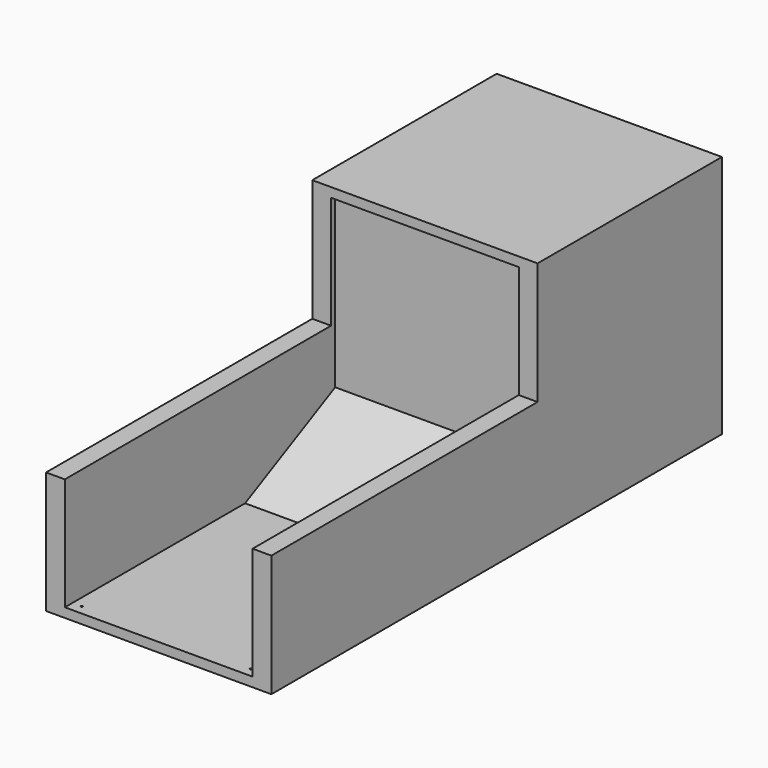
from build123d import *

# Parameters (mm, degrees)
F0_W          = 1219.2
F0_H          = 1320.8
F1_DEPTH      = 3048
F2_W          = 1016
F2_H          = 1219.2
F3_DEPTH      = 1219.2
F4_W          = 1016
F4_H          = 914.4
F5_DEPTH      = 609.6
F8_DEPTH      = 508
F8_DEPTH_BACK = 508
F9_W          = 1219.2
F9_H          = 660.4
F10_DEPTH     = 1800.86
F12_DEPTH     = 12.7


with BuildPart() as f1:
    # F0 (on Front) → F1 (new body)
    with BuildSketch(Plane.XZ):
        Rectangle(F0_W, F0_H)
    extrude(amount=-F1_DEPTH)

    # F2 (on face) → F3 (cut)
    with BuildSketch(Plane.XZ):
        Rectangle(F2_W, F2_H)
    extrude(amount=-F3_DEPTH, mode=Mode.SUBTRACT)

    # F4 (on face) → F5 (cut)
    with BuildSketch(Plane.XZ.offset(-1219.2)):
        with Locations((0, 152.4)):
            Rectangle(F4_W, F4_H)
    extrude(amount=-F5_DEPTH, mode=Mode.SUBTRACT)

    # F7 (on mid) → F8 (cut, two sides)
    with BuildSketch(Plane.YZ) as f8_sk:
        Polygon((1828.7993829124, 0), (0, 0), (0, -609.6), (1219.2, -609.6), (1828.7993829124, -304.7996592282), align=None)
    extrude(amount=-F8_DEPTH, mode=Mode.SUBTRACT)
    extrude(f8_sk.sketch, amount=F8_DEPTH_BACK, mode=Mode.SUBTRACT)

    # F9 (on face) → F10 (cut)
    with BuildSketch(Plane.XZ):
        with Locations((0, 330.2)):
            Rectangle(F9_W, F9_H)
    extrude(amount=-F10_DEPTH, mode=Mode.SUBTRACT)

    # F11 (on face) → F12 (cut)
    with BuildSketch(Plane.XY.offset(-609.6)):
        with BuildLine():
            Line((-457.2, 50.8), (-457.2, 46.0375))
            ThreePointArc((-457.2, 46.0375), (-453.8324039546, 47.4324039546), (-452.4375, 50.8))
            ThreePointArc((-452.4375, 50.8), (-457.2, 55.5625), (-461.9625, 50.8))
            Line((-461.9625, 50.8), (-457.2, 50.8))
        make_face()
        with BuildLine():
            ThreePointArc((-461.9625, 50.8), (-460.5675960454, 47.4324039546), (-457.2, 46.0375))
            Line((-457.2, 46.0375), (-457.2, 50.8))
            Line((-457.2, 50.8), (-461.9625, 50.8))
        make_face()
        with BuildLine():
            Line((457.2, 50.8), (457.2, 46.0375))
            ThreePointArc((457.2, 46.0375), (460.5675960454, 47.4324039546), (461.9625, 50.8))
            Line((461.9625, 50.8), (457.2, 50.8))
        make_face()
        with BuildLine():
            ThreePointArc((461.9625, 50.8), (453.8324039546, 54.1675960454), (457.2, 46.0375))
            Line((457.2, 46.0375), (457.2, 50.8))
            Line((457.2, 50.8), (461.9625, 50.8))
        make_face()
    extrude(amount=-F12_DEPTH, mode=Mode.SUBTRACT)


solid = f1.part
